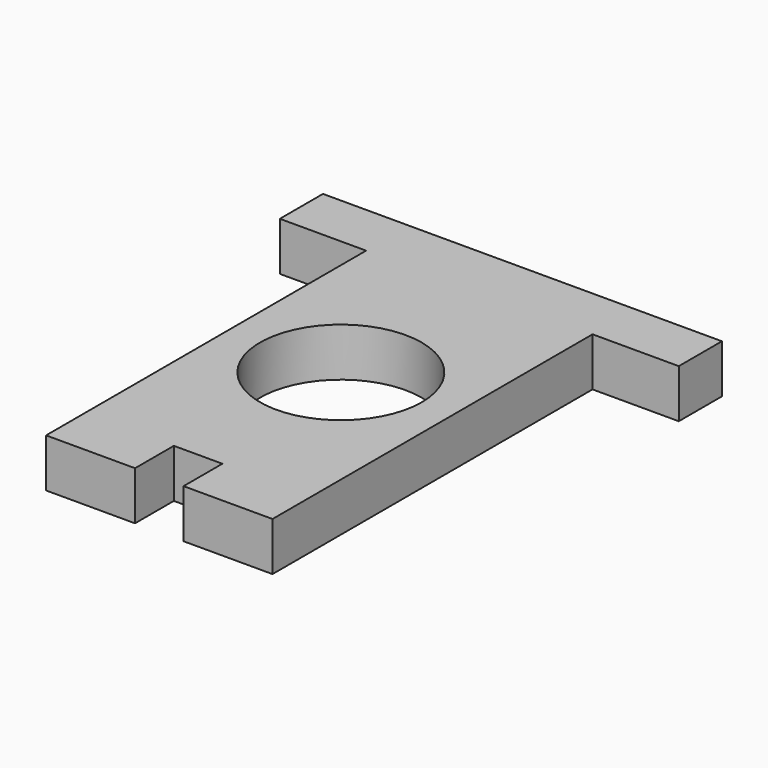
from build123d import *

# Parameters (mm, degrees)
F0_R     = 7.5
F1_DEPTH = 4.5
F2_W     = 4.5
F2_H     = 4.5
F3_DEPTH = 4.5
F4_W     = 37
F4_H     = 5
F5_DEPTH = 4.5


with BuildPart() as f1:
    # F0 (on Top) → F1 (new body)
    with BuildSketch(Plane.XY):
        Polygon((10.5, 21.05), (-10.5, 21.05), (-10.5, -21.05), (-2.25, -21.05), (-2.25, -16.55), (2.25, -16.55), (2.25, -21.05), (10.5, -21.05), align=None)
        Circle(F0_R, mode=Mode.SUBTRACT)
    extrude(amount=F1_DEPTH)

    # F2 (on face) → F3 (join)
    with BuildSketch(Plane(origin=(0, 0, 0), x_dir=(1, 0, 0), z_dir=(0, 0, -1))):
        with Locations((0, -18.8)):
            Rectangle(F2_W, F2_H)
    extrude(amount=F3_DEPTH)

    # F4 (on face) → F5 (join)
    with BuildSketch(Plane.XY.offset(4.5)):
        with Locations((0, 18.55)):
            Rectangle(F4_W, F4_H)
    extrude(amount=-F5_DEPTH)


solid = f1.part
